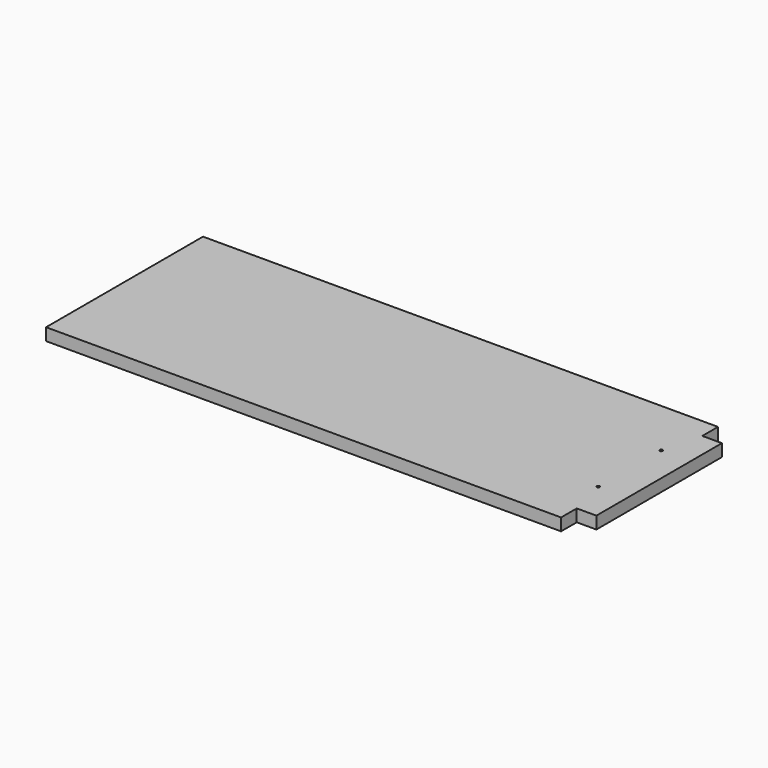
from build123d import *

# Parameters (mm, degrees)
F2_DEPTH = 25
F0_R     = 3
F3_DEPTH = 25.001


with BuildPart() as f2:
    # F1 (on Top) → F2 (new body)
    with BuildSketch(Plane.XY):
        Polygon((0, 400), (0, 0), (1050, 0), (1050, 40), (1090, 40), (1090, 360), (1050, 360), (1050, 400), align=None)
    extrude(amount=F2_DEPTH)

    # F0 (on face) → F3 (cut, through all)
    with BuildSketch(Plane.XY.offset(25)):
        with Locations((1030, 120)):
            Circle(F0_R)
        with Locations((1030, 280)):
            Circle(F0_R)
    extrude(amount=-F3_DEPTH, mode=Mode.SUBTRACT)


solid = f2.part
